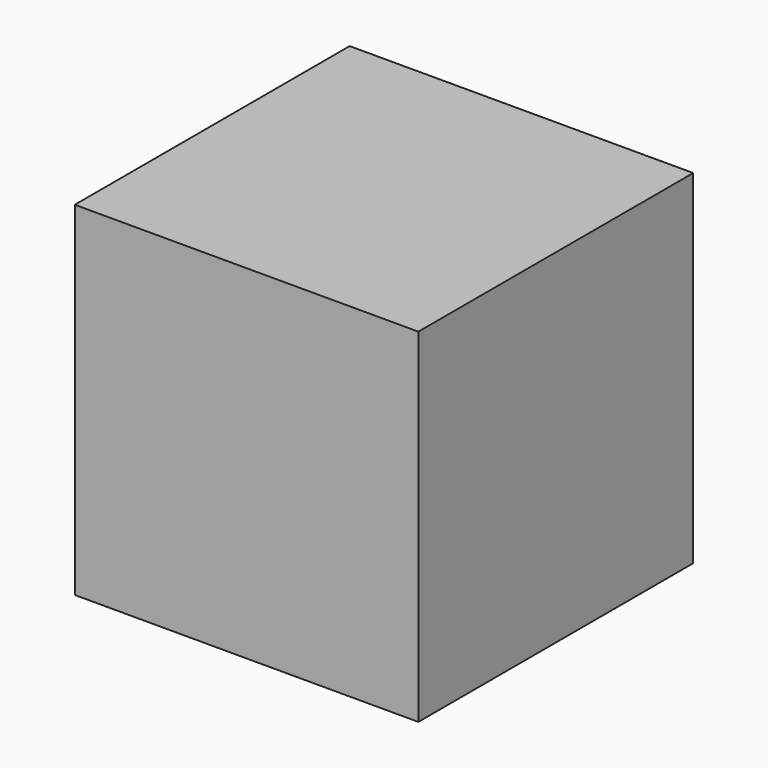
from build123d import *

# Parameters (mm, degrees)
SKETCH_W  = 10
SKETCH_H  = 10
PAD_DEPTH = 10


with BuildPart() as part:
    # Sketch → Pad (new body)
    with BuildSketch(Plane.XY):
        with Locations((5, 5)):
            Rectangle(SKETCH_W, SKETCH_H)
    extrude(amount=PAD_DEPTH)


solid = part.part
